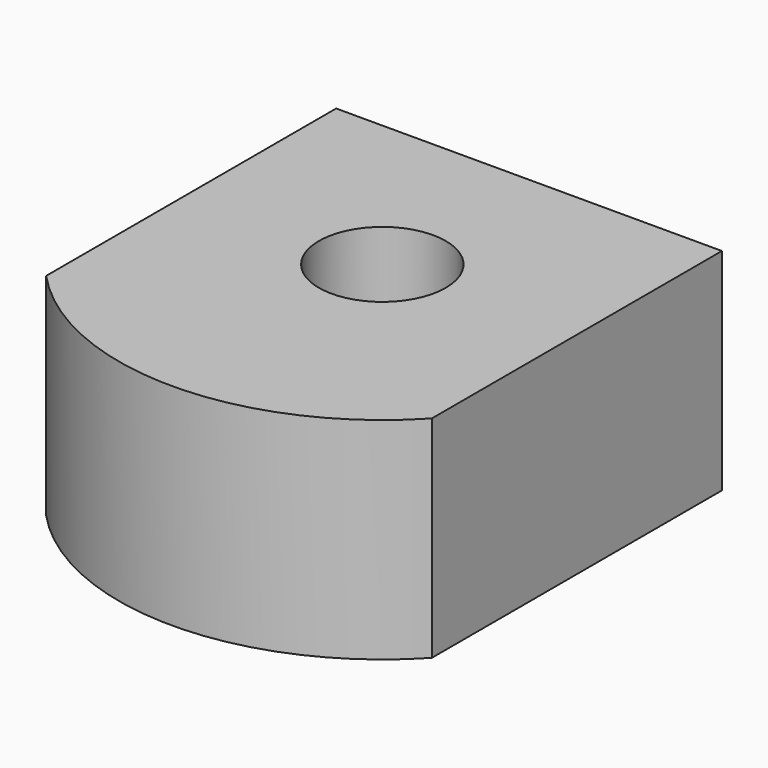
from build123d import *

# Parameters (mm, degrees)
F0_W     = 92.964003
F0_H     = 87.376002
F0_R     = 15.291068
F1_DEPTH = 50.8


with BuildPart() as f1:
    # F0 (on Top) → F1 (new body)
    with BuildSketch(Plane.XY):
        with Locations((-9.143999, 0.505356)):
            Rectangle(F0_W, F0_H)
        with Locations((-9.144, 0)):
            Circle(F0_R, mode=Mode.SUBTRACT)
        with BuildLine():
            Line((37.338002, -43.182645), (-55.626001, -43.182645))
            ThreePointArc((-55.626001, -43.182645), (-9.144, -63.445388), (37.338002, -43.182645))
        make_face()
    extrude(amount=F1_DEPTH)


solid = f1.part
